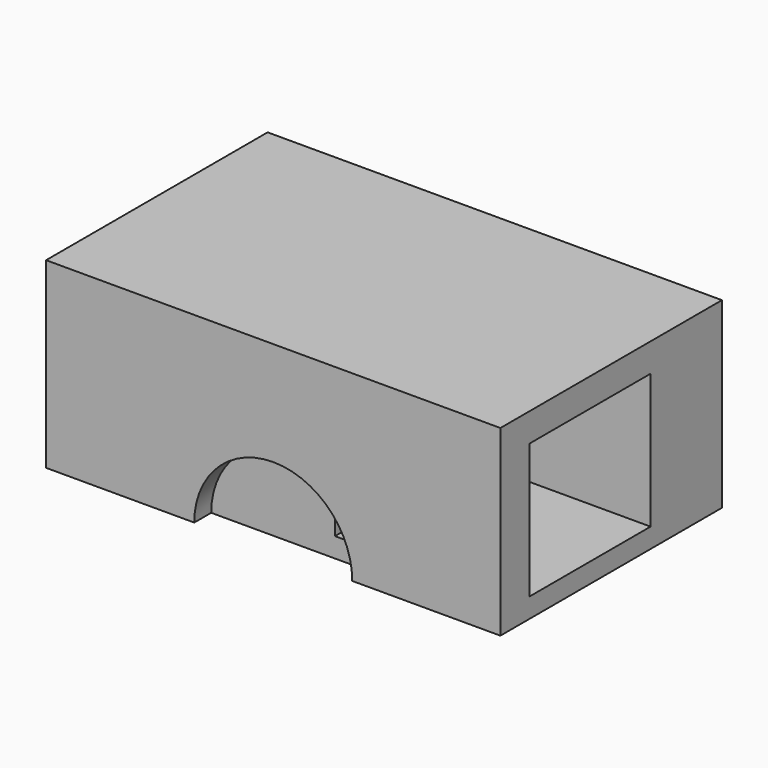
from build123d import *

# Parameters (mm, degrees)
F0_W       = 261.3020315766
F0_H       = 159.2612788081
F1_DEPTH   = 105.156
F2_W       = 119.9641153216
F2_H       = 77.4333942682
F3_DEPTH   = 104.902
F5_DEPTH   = 63.5
F1_FACE2_W = 261.3020315766
F1_FACE2_H = 105.156
F7_DEPTH   = 51.308


with BuildPart() as f1:
    # F0 (on Top) → F1 (new body)
    with BuildSketch(Plane.XY):
        with Locations((-55.9731982648, 11.1682154238)):
            Rectangle(F0_W, F0_H)
    extrude(amount=F1_DEPTH)

    # F2 (on face) → F3 (cut)
    with BuildSketch(Plane.YZ.offset(74.6778175235)):
        with Locations((12.3364068568, 50.0526567921)):
            Rectangle(F2_W, F2_H)
    extrude(amount=-F3_DEPTH, mode=Mode.SUBTRACT)

    # F4 (on face) → F5 (cut)
    with BuildSketch(Plane.XZ.offset(68.4624239802)):
        with BuildLine():
            Line((-101.4091865089, 0), (-10.5372100208, 0))
            ThreePointArc((-10.5372100208, 0), (-55.9731982648, 45.435988244), (-101.4091865089, 0))
        make_face()
    extrude(amount=-F5_DEPTH, mode=Mode.SUBTRACT)

    # F6 (on face) + F1_face2 (on face) + F5_face (on face) → F7 (join)
    with BuildSketch(Plane(origin=(0, 90.7988548279, 0), x_dir=(-1, 0, 0), z_dir=(0, 1, 0))):
        with BuildLine():
            Line((4.3711580431, 0), (100.9396470988, 0))
            ThreePointArc((100.9396470988, 0), (52.655402571, 48.2842445279), (4.3711580431, 0))
        make_face()
    with BuildSketch(Plane(origin=(-55.9731982648, 90.7988548279, 52.578), x_dir=(-1, 0, 0), z_dir=(0, 1, 0))):
        Rectangle(F1_FACE2_W, F1_FACE2_H)
    with BuildSketch(Plane(origin=(-59.2987118698, -4.9624239802, 19.1021444838), x_dir=(1, 0, 0), z_dir=(0, -1, 0))):
        with BuildLine():
            ThreePointArc((29.0745293932, 18.3333629075), (-17.8227374937, 21.1120383773), (-42.1104746391, -19.1021444838))
            Line((-42.1104746391, -19.1021444838), (48.761501849, -19.1021444838))
            ThreePointArc((48.761501849, -19.1021444838), (48.4008605817, -13.388815976), (47.3246618506, -7.7661848257))
            Line((47.3246618506, -7.7661848257), (29.0745293932, -7.7661848257))
            Line((29.0745293932, -7.7661848257), (29.0745293932, 18.3333629075))
        make_face()
    extrude(amount=-F7_DEPTH, dir=(0, 1, 0))


solid = f1.part
